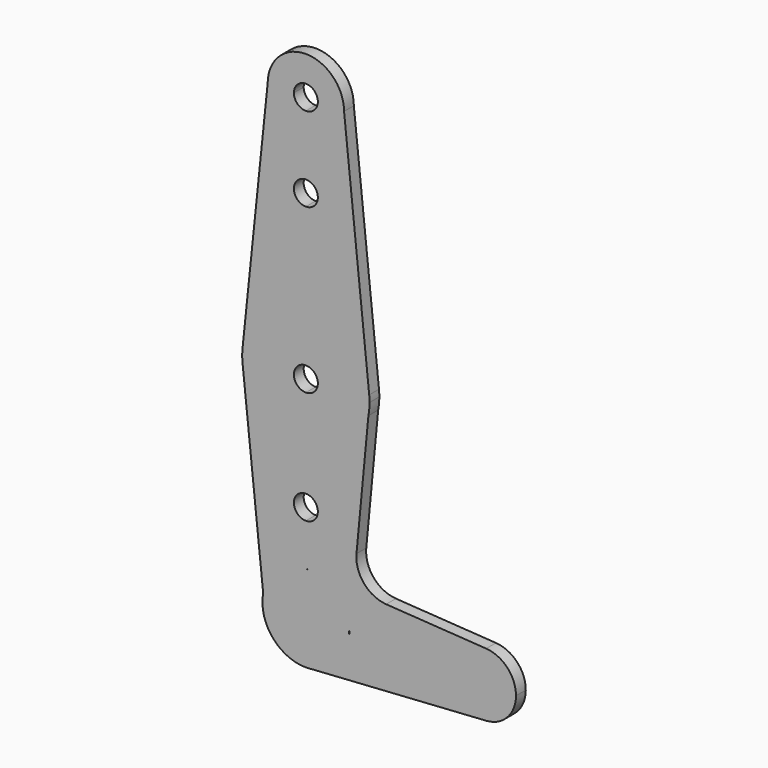
from build123d import *

# Parameters (mm, degrees)
F1_DEPTH = 3.048


with BuildPart() as f1:
    # F0 (on Front) → F1 (new body)
    with BuildSketch(Plane.XZ):
        with BuildLine():
            Line((15.875, 0), (15.5906901587, -2.9909873578))
            ThreePointArc((15.5906901587, -2.9909873578), (15.803762705, -1.5022347903), (15.875, 0))
        make_face()
        with BuildLine():
            Line((1.4003408265, -63.2241331384), (0, -63.3149812557))
            ThreePointArc((0, -63.3149812557), (0.7016423253, -63.2922453786), (1.4003408265, -63.2241331384))
        make_face()
        with BuildLine():
            ThreePointArc((36.5125, -52.4770691991), (39.0220603724, -58.2685610319), (44.9638707463, -60.3979178346))
            ThreePointArc((44.9638707463, -60.3979178346), (50.2414918328, -57.9050088266), (52.3875, -52.4770691991))
            ThreePointArc((52.3875, -52.4770691991), (50.2414918328, -47.0491295715), (44.9638707463, -44.5562205636))
            ThreePointArc((44.9638707463, -44.5562205636), (39.0220603724, -46.6855773663), (36.5125, -52.4770691991))
        make_face()
        with BuildLine():
            Line((12.6191526396, -34.2520619409), (11.8439294246, -42.4075405738))
            Line((11.8439294246, -42.4075405738), (20.0189840628, -42.9379031172))
            ThreePointArc((20.0189840628, -42.9379031172), (14.4819098788, -40.1601346792), (12.6191526396, -34.2520619409))
        make_face()
        with BuildLine():
            ThreePointArc((9.525, 61.8229308009), (0, 71.3479308009), (-9.525, 61.8229308009))
            Line((-9.525, 61.8229308009), (-2.9845, 61.8229308009))
            ThreePointArc((-2.9845, 61.8229308009), (0, 64.8074308009), (2.9845, 61.8229308009))
            ThreePointArc((2.9845, 61.8229308009), (2.1103601885, 59.7125706125), (0, 58.8384308009))
            Line((0, 58.8384308009), (0, 52.2979308009))
            ThreePointArc((0, 52.2979308009), (6.7351920908, 55.0877387101), (9.525, 61.8229308009))
        make_face()
        with BuildLine():
            Line((-2.9845, 61.8229308009), (-9.525, 61.8229308009))
            ThreePointArc((-9.525, 61.8229308009), (-6.7351920908, 55.0877387101), (0, 52.2979308009))
            Line((0, 52.2979308009), (0, 58.8384308009))
            ThreePointArc((0, 58.8384308009), (-2.1103601885, 59.7125706125), (-2.9845, 61.8229308009))
        make_face()
        with BuildLine():
            Line((0, 37.8262675612), (0, 15.875))
            ThreePointArc((0, 15.875), (10.6283048728, 11.7921482577), (15.7896751859, 1.6437099882))
            Line((15.7896751859, 1.6437099882), (9.525, 61.8229308009))
            ThreePointArc((9.525, 61.8229308009), (6.7351920908, 55.0877387101), (0, 52.2979308009))
            Line((0, 52.2979308009), (0, 43.7952675612))
            ThreePointArc((0, 43.7952675612), (2.1103601885, 42.9211277496), (2.9845, 40.8107675612))
            ThreePointArc((2.9845, 40.8107675612), (2.1103601885, 38.7004073727), (0, 37.8262675612))
        make_face()
        with BuildLine():
            Line((-9.525, 61.8229308009), (-15.7896751859, 1.6437099882))
            ThreePointArc((-15.7896751859, 1.6437099882), (-10.6283048728, 11.7921482577), (0, 15.875))
            Line((0, 15.875), (0, 37.8262675612))
            ThreePointArc((0, 37.8262675612), (-2.9845, 40.8107675612), (0, 43.7952675612))
            Line((0, 43.7952675612), (0, 52.2979308009))
            ThreePointArc((0, 52.2979308009), (-6.7351920908, 55.0877387101), (-9.525, 61.8229308009))
        make_face()
        with BuildLine():
            ThreePointArc((-15.7896751859, 1.6437099882), (-15.8749970359, -0.0097010433), (-15.7876544862, -1.6630065613))
            ThreePointArc((-15.7876544862, -1.6630065613), (-10.6210968322, -11.7986408997), (0, -15.875))
            Line((0, -15.875), (0, -2.9845))
            ThreePointArc((0, -2.9845), (-2.9845, 0), (0, 2.9845))
            Line((0, 2.9845), (0, 11.0229308009))
            Line((0, 11.0229308009), (0, 15.875))
            ThreePointArc((0, 15.875), (-10.6283048728, 11.7921482577), (-15.7896751859, 1.6437099882))
        make_face()
        with BuildLine():
            Line((0, -31.1324340047), (0, -41.6391571425))
            ThreePointArc((0, -41.6391571425), (0.7016423253, -41.6618930196), (1.4003408265, -41.7300052598))
            Line((1.4003408265, -41.7300052598), (11.8439294246, -42.4075405738))
            Line((11.8439294246, -42.4075405738), (12.6191526396, -34.2520619409))
            Line((12.6191526396, -34.2520619409), (15.5906901587, -2.9909873578))
            ThreePointArc((15.5906901587, -2.9909873578), (10.1127073698, -12.2371881841), (0, -15.875))
            Line((0, -15.875), (0, -25.1634340047))
            ThreePointArc((0, -25.1634340047), (2.1103601885, -26.0375738162), (2.9845, -28.1479340047))
            ThreePointArc((2.9845, -28.1479340047), (2.1103601885, -30.2582941931), (0, -31.1324340047))
        make_face()
        with BuildLine():
            Line((10.8867652033, -52.4770691991), (10.8379120566, -52.4770691991))
            ThreePointArc((10.8379120566, -52.4770691991), (8.1436204624, -59.6284175691), (1.4003408265, -63.2241331384))
            Line((1.4003408265, -63.2241331384), (44.9638707463, -60.3979178346))
            ThreePointArc((44.9638707463, -60.3979178346), (39.0220603724, -58.2685610319), (36.5125, -52.4770691991))
            Line((36.5125, -52.4770691991), (10.8867652033, -52.4770691991))
        make_face()
        with BuildLine():
            Line((0, -2.9845), (0, -15.875))
            ThreePointArc((0, -15.875), (10.1127073698, -12.2371881841), (15.5906901587, -2.9909873578))
            Line((15.5906901587, -2.9909873578), (15.875, 0))
            ThreePointArc((15.875, 0), (15.8536544458, 0.8229615497), (15.7896751859, 1.6437099882))
            ThreePointArc((15.7896751859, 1.6437099882), (10.6283048728, 11.7921482577), (0, 15.875))
            Line((0, 15.875), (0, 11.0229308009))
            Line((0, 11.0229308009), (0, 2.9845))
            ThreePointArc((0, 2.9845), (2.1103601885, 2.1103601885), (2.9845, 0))
            ThreePointArc((2.9845, 0), (2.1103601885, -2.1103601885), (0, -2.9845))
        make_face()
        with BuildLine():
            Line((0, -52.4770691991), (0, -41.6391571425))
            ThreePointArc((0, -41.6391571425), (-6.9124383958, -44.1297023585), (-10.6479290016, -50.4566866308))
            ThreePointArc((-10.6479290016, -50.4566866308), (-8.3473668405, -59.3895075949), (0, -63.3149812557))
            Line((0, -63.3149812557), (1.4003408265, -63.2241331384))
            ThreePointArc((1.4003408265, -63.2241331384), (8.1436204624, -59.6284175691), (10.8379120566, -52.4770691991))
            Line((10.8379120566, -52.4770691991), (10.6890844764, -52.4770691991))
            Line((10.6890844764, -52.4770691991), (0, -52.4770691991))
        make_face()
        with BuildLine():
            Line((20.0189840628, -42.9379031172), (11.8439294246, -42.4075405738))
            Line((11.8439294246, -42.4075405738), (10.8867652033, -52.4770691991))
            Line((10.8867652033, -52.4770691991), (36.5125, -52.4770691991))
            ThreePointArc((36.5125, -52.4770691991), (39.0220603724, -46.6855773663), (44.9638707463, -44.5562205636))
            Line((44.9638707463, -44.5562205636), (20.0189840628, -42.9379031172))
        make_face()
        with BuildLine():
            Line((11.8439294246, -42.4075405738), (1.4003408265, -41.7300052598))
            ThreePointArc((1.4003408265, -41.7300052598), (7.800803165, -44.9532531642), (10.7906490607, -51.4660149992))
            ThreePointArc((10.7906490607, -51.4660149992), (10.8260898597, -51.9709900586), (10.8379120566, -52.4770691991))
            Line((10.8379120566, -52.4770691991), (10.8867652033, -52.4770691991))
            Line((10.8867652033, -52.4770691991), (11.8439294246, -42.4075405738))
        make_face()
        with BuildLine():
            Line((1.4003408265, -41.7300052598), (0, -41.6391571425))
            Line((0, -41.6391571425), (0, -52.4770691991))
            Line((0, -52.4770691991), (10.6890844764, -52.4770691991))
            Line((10.6890844764, -52.4770691991), (10.7906490607, -51.4660149992))
            ThreePointArc((10.7906490607, -51.4660149992), (7.800803165, -44.9532531642), (1.4003408265, -41.7300052598))
        make_face()
        with BuildLine():
            ThreePointArc((-10.6479290016, -50.4566866308), (-6.9124383958, -44.1297023585), (0, -41.6391571425))
            Line((0, -41.6391571425), (0, -31.1324340047))
            ThreePointArc((0, -31.1324340047), (-2.9845, -28.1479340047), (0, -25.1634340047))
            Line((0, -25.1634340047), (0, -15.875))
            ThreePointArc((0, -15.875), (-10.6210968322, -11.7986408997), (-15.7876544862, -1.6630065613))
            Line((-15.7876544862, -1.6630065613), (-10.6479290016, -50.4566866308))
        make_face()
    extrude(amount=F1_DEPTH)


solid = f1.part
